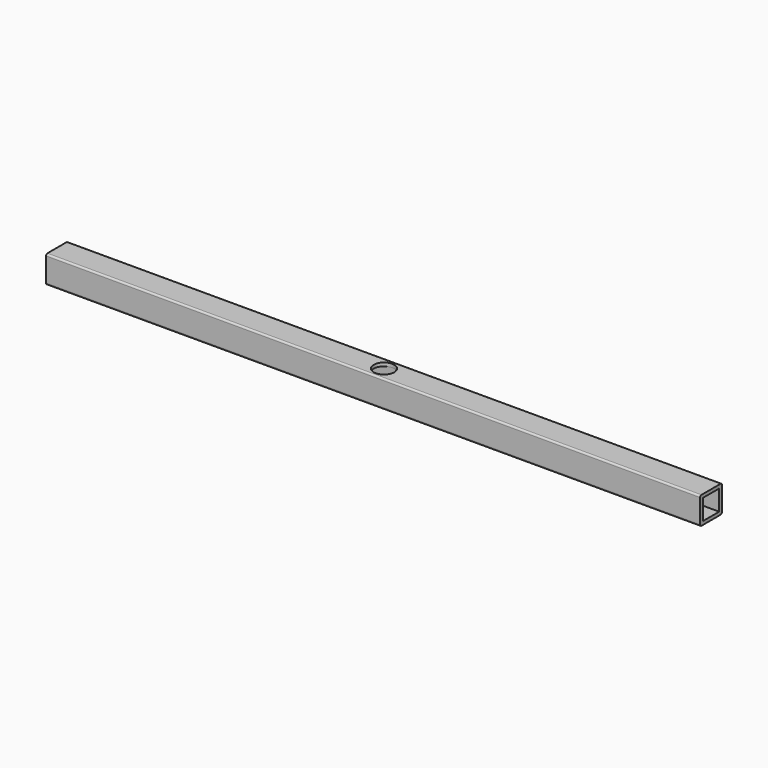
from build123d import *

# Parameters (mm, degrees)
F0_W     = 25.4
F0_H     = 25.4
F0_W_2   = 19.05
F0_H_2   = 19.05
F1_DEPTH = 609.6
F2_R     = 1.5875
F3_R     = 9.525
F4_DEPTH = 6.35
F5_R     = 3.175
F6_DEPTH = 25.4


with BuildPart() as f1:
    # F0 (on Right) → F1 (new body)
    with BuildSketch(Plane.YZ):
        with Locations((12.7, -12.7)):
            Rectangle(F0_W, F0_H)
        with Locations((12.7, -12.7)):
            Rectangle(F0_W_2, F0_H_2, mode=Mode.SUBTRACT)
    extrude(amount=F1_DEPTH)

    # F2
    f2_edges = [f1.edges().sort_by_distance(p)[0] for p in [
        (304.8, 0, 0),
        (304.8, 25.4, 0),
        (304.8, 0, -25.4),
        (304.8, 25.4, -25.4),
    ]]
    fillet(f2_edges, radius=F2_R)

    # F3 (on face) → F4 (cut)
    with BuildSketch(Plane.XY):
        with Locations((304.8, 12.7)):
            Circle(F3_R)
    extrude(amount=-F4_DEPTH, mode=Mode.SUBTRACT)

    # F5 (on face) → F6 (cut)
    with BuildSketch(Plane.XY):
        with Locations((304.8, 12.7)):
            Circle(F5_R)
    extrude(amount=-F6_DEPTH, mode=Mode.SUBTRACT)


solid = f1.part
